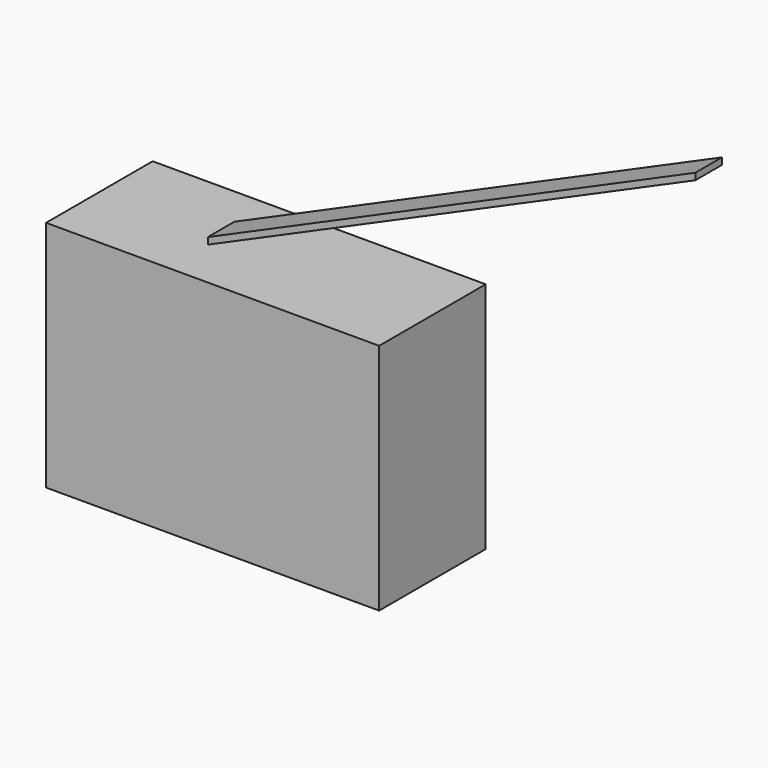
from build123d import *

# Parameters (mm, degrees)
F1_DEPTH = 12.7
F2_DEPTH = 3.175


with BuildPart() as f1:
    # F0 (on Front) → F1 (new body, symmetric)
    with BuildSketch(Plane.XZ):
        Polygon((-3.052571, 6.682177), (-26.259099, 6.682177), (-26.259099, -37.767823), (37.240901, -37.767823), (37.240901, 6.682177), align=None)
    extrude(amount=F1_DEPTH, both=True)


with BuildPart() as f2:
    # F0 (on Front) → F2 (new body, symmetric)
    with BuildSketch(Plane.XZ):
        Polygon((-3.052571, 7.952177), (-3.052571, 6.682177), (89.895522, 47.709143), (89.895522, 48.979143), align=None)
    extrude(amount=F2_DEPTH, both=True)


solid = Compound([f1.part, f2.part])
